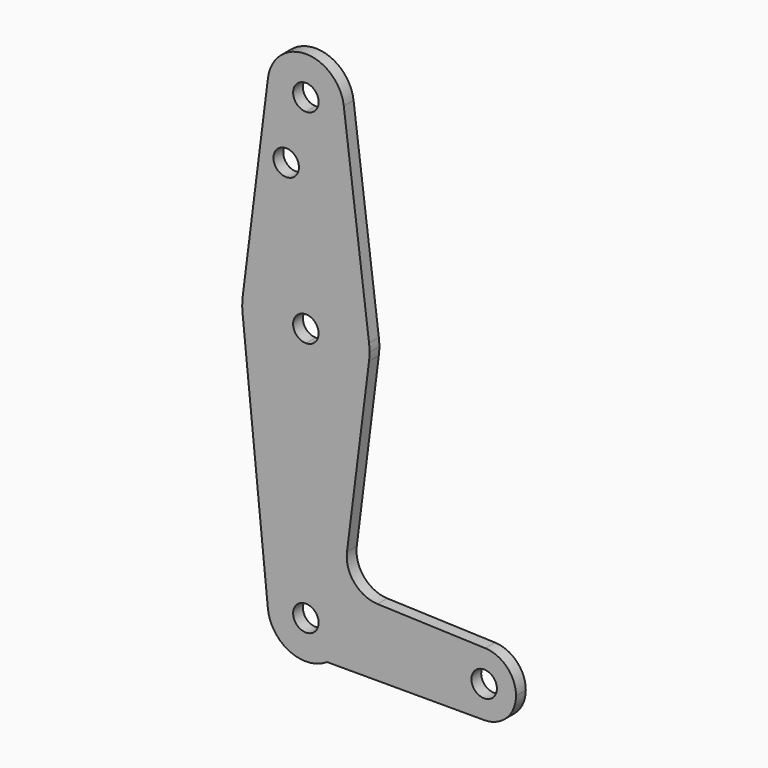
from build123d import *

# Parameters (mm, degrees)
F0_R     = 3.175
F1_DEPTH = 3.048


with BuildPart() as f1:
    # F0 (on Front) → F1 (new body)
    with BuildSketch(Plane.XZ):
        with BuildLine():
            ThreePointArc((-49.5278904205, 87.0511178125), (-47.2213474563, 79.560297503), (-40.0775974563, 76.3354928125))
            ThreePointArc((-40.0775974563, 76.3354928125), (-33.3424053655, 79.1253007217), (-30.5525974563, 85.8604928125))
            ThreePointArc((-30.5525974563, 85.8604928125), (-30.571292562, 86.4569760545), (-30.627304492, 87.0511178125))
            ThreePointArc((-30.627304492, 87.0511178125), (-40.0775974563, 95.3854928125), (-49.5278904205, 87.0511178125))
        make_face()
        with BuildLine():
            ThreePointArc((-36.9025974563, 85.8604928125), (-37.832533426, 83.6154287823), (-40.0775974563, 82.6854928125))
            ThreePointArc((-40.0775974563, 82.6854928125), (-42.3226614865, 88.1055568428), (-36.9025974563, 85.8604928125))
        make_face(mode=Mode.SUBTRACT)
        with BuildLine():
            ThreePointArc((-30.5525974563, 85.8604928125), (-33.3424053655, 79.1253007217), (-40.0775974563, 76.3354928125))
            Line((-40.0775974563, 76.3354928125), (-40.0775974563, 50.9354928125))
            ThreePointArc((-40.0775974563, 50.9354928125), (-29.5772719405, 46.9667428125), (-24.3271091826, 37.0448678125))
            Line((-24.3271091826, 37.0448678125), (-30.627304492, 87.0511178125))
            ThreePointArc((-30.627304492, 87.0511178125), (-30.571292562, 86.4569760545), (-30.5525974563, 85.8604928125))
        make_face()
        with BuildLine():
            Line((-40.0775974563, 50.9354928125), (-40.0775974563, 76.3354928125))
            ThreePointArc((-40.0775974563, 76.3354928125), (-47.2213474563, 79.560297503), (-49.5278904205, 87.0511178125))
            Line((-49.5278904205, 87.0511178125), (-55.8280857299, 37.0448678125))
            ThreePointArc((-55.8280857299, 37.0448678125), (-50.577922972, 46.9667428125), (-40.0775974563, 50.9354928125))
        make_face()
        with Locations((-44.9845120311, 69.9261575937)):
            Circle(F0_R, mode=Mode.SUBTRACT)
        with BuildLine():
            ThreePointArc((-24.3271091826, 37.0448678125), (-29.5772719405, 46.9667428125), (-40.0775974563, 50.9354928125))
            Line((-40.0775974563, 50.9354928125), (-40.0775974563, 38.2354928125))
            ThreePointArc((-40.0775974563, 38.2354928125), (-37.832533426, 37.3055568428), (-36.9025974563, 35.0604928125))
            ThreePointArc((-36.9025974563, 35.0604928125), (-37.832533426, 32.8154287823), (-40.0775974563, 31.8854928125))
            Line((-40.0775974563, 31.8854928125), (-40.0775974563, 19.1854928125))
            ThreePointArc((-40.0775974563, 19.1854928125), (-29.5772719405, 23.1542428125), (-24.3271091826, 33.0761178125))
            ThreePointArc((-24.3271091826, 33.0761178125), (-24.2337559659, 34.0663540759), (-24.2025974563, 35.0604928125))
            ThreePointArc((-24.2025974563, 35.0604928125), (-24.2337559659, 36.0546315491), (-24.3271091826, 37.0448678125))
        make_face()
        with BuildLine():
            Line((-40.0775974563, 38.2354928125), (-40.0775974563, 50.9354928125))
            ThreePointArc((-40.0775974563, 50.9354928125), (-50.577922972, 46.9667428125), (-55.8280857299, 37.0448678125))
            ThreePointArc((-55.8280857299, 37.0448678125), (-55.9513412717, 35.2601982992), (-55.8730230203, 33.4729928125))
            ThreePointArc((-55.8730230203, 33.4729928125), (-50.7268711991, 23.2872777143), (-40.0775974563, 19.1854928125))
            Line((-40.0775974563, 19.1854928125), (-40.0775974563, 31.8854928125))
            ThreePointArc((-40.0775974563, 31.8854928125), (-43.2525974563, 35.0604928125), (-40.0775974563, 38.2354928125))
        make_face()
        with BuildLine():
            ThreePointArc((-40.0775974563, 19.1854928125), (-50.7268711991, 23.2872777143), (-55.8730230203, 33.4729928125))
            Line((-55.8730230203, 33.4729928125), (-49.5548527947, -29.3920071875))
            ThreePointArc((-49.5548527947, -29.3920071875), (-47.1415265152, -22.0499429418), (-40.0775974563, -18.9145071875))
            Line((-40.0775974563, -18.9145071875), (-40.0775974563, 19.1854928125))
        make_face()
        with BuildLine():
            ThreePointArc((-24.3271091826, 33.0761178125), (-29.5772719405, 23.1542428125), (-40.0775974563, 19.1854928125))
            Line((-40.0775974563, 19.1854928125), (-40.0775974563, -18.9145071875))
            ThreePointArc((-40.0775974563, -18.9145071875), (-33.3424053655, -21.7043150967), (-30.5525974563, -28.4395071875))
            Line((-30.5525974563, -28.4395071875), (-3.5650974563, -28.4395071875))
            ThreePointArc((-3.5650974563, -28.4395071875), (-1.1391202377, -22.7275002828), (4.6558846866, -20.5070709838))
            Line((4.6558846866, -20.5070709838), (-22.2268136845, -19.5463617207))
            ThreePointArc((-22.2268136845, -19.5463617207), (-27.9984948045, -16.7524650055), (-29.8307224976, -10.6074586192))
            Line((-29.8307224976, -10.6074586192), (-24.3271091826, 33.0761178125))
        make_face()
        with BuildLine():
            ThreePointArc((-40.0775974563, -18.9145071875), (-47.1415265152, -22.0499429418), (-49.5548527947, -29.3920071875))
            ThreePointArc((-49.5548527947, -29.3920071875), (-44.1559588, -37.0472126744), (-34.8124556016, -36.3770071875))
            ThreePointArc((-34.8124556016, -36.3770071875), (-31.6848594892, -32.9436801878), (-30.5525974563, -28.4395071875))
            Line((-30.5525974563, -28.4395071875), (-36.9025974563, -28.4395071875))
            ThreePointArc((-36.9025974563, -28.4395071875), (-42.3226614865, -30.6845712177), (-40.0775974563, -25.2645071875))
            Line((-40.0775974563, -25.2645071875), (-40.0775974563, -18.9145071875))
        make_face()
        with BuildLine():
            ThreePointArc((-30.5525974563, -28.4395071875), (-31.6848594892, -32.9436801878), (-34.8124556016, -36.3770071875))
            Line((-34.8124556016, -36.3770071875), (4.3724025437, -36.3770071875))
            ThreePointArc((4.3724025437, -36.3770071875), (-1.2402575319, -34.0521672631), (-3.5650974563, -28.4395071875))
            Line((-3.5650974563, -28.4395071875), (-30.5525974563, -28.4395071875))
        make_face()
        with BuildLine():
            ThreePointArc((-3.5650974563, -28.4395071875), (-1.2402575319, -34.0521672631), (4.3724025437, -36.3770071875))
            ThreePointArc((4.3724025437, -36.3770071875), (9.9850626194, -34.0521672631), (12.3099025437, -28.4395071875))
            ThreePointArc((12.3099025437, -28.4395071875), (10.0844094485, -22.927984406), (4.6558846866, -20.5070709838))
            ThreePointArc((4.6558846866, -20.5070709838), (-1.1391202377, -22.7275002828), (-3.5650974563, -28.4395071875))
        make_face()
        with BuildLine():
            ThreePointArc((7.5474025437, -28.4395071875), (4.3724025437, -31.6145071875), (1.1974025437, -28.4395071875))
            ThreePointArc((1.1974025437, -28.4395071875), (4.3724025437, -25.2645071875), (7.5474025437, -28.4395071875))
        make_face(mode=Mode.SUBTRACT)
        with BuildLine():
            ThreePointArc((-30.5525974563, -28.4395071875), (-33.3424053655, -21.7043150967), (-40.0775974563, -18.9145071875))
            Line((-40.0775974563, -18.9145071875), (-40.0775974563, -25.2645071875))
            ThreePointArc((-40.0775974563, -25.2645071875), (-37.832533426, -26.1944431572), (-36.9025974563, -28.4395071875))
            Line((-36.9025974563, -28.4395071875), (-30.5525974563, -28.4395071875))
        make_face()
    extrude(amount=F1_DEPTH)


solid = f1.part
